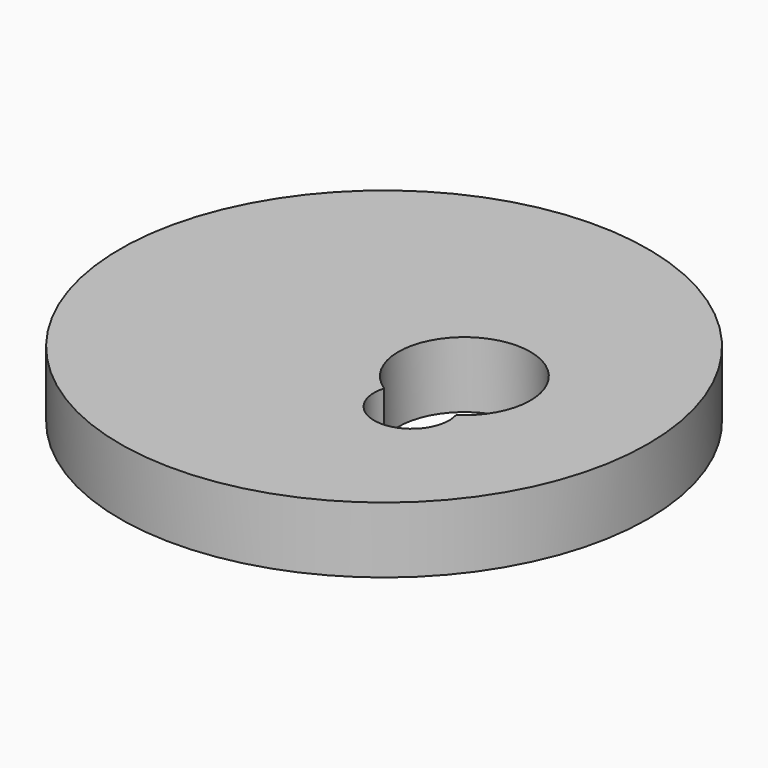
from build123d import *

# Parameters (mm, degrees)
F0_R     = 50.8
F1_DEPTH = 12.7


with BuildPart() as f1:
    # F0 (on Top) → F1 (new body)
    with BuildSketch(Plane.XY):
        with Locations((-15.452835, 0)):
            Circle(F0_R)
        with BuildLine():
            ThreePointArc((-6.919933, -10.649156), (0, 12.7), (6.919933, -10.649156))
            ThreePointArc((6.919933, -10.649156), (0, -19.91744), (-6.919933, -10.649156))
        make_face(mode=Mode.SUBTRACT)
    extrude(amount=F1_DEPTH)


solid = f1.part
